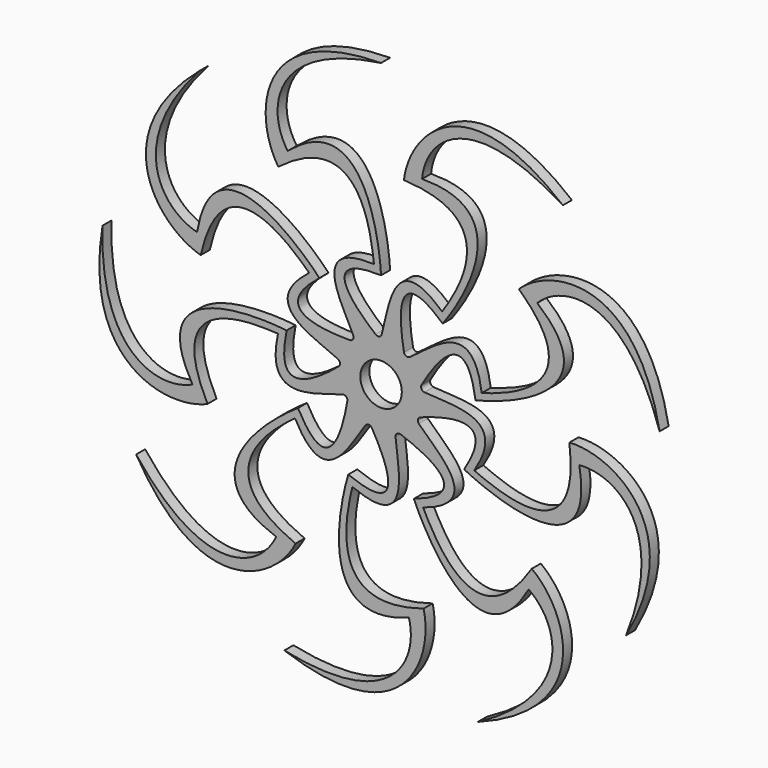
from build123d import *

# Parameters (mm, degrees)
F0_R     = 11
F2_DEPTH = 6
F3_DEPTH = 6
F4_COUNT = 9
F5_R     = 2


with BuildPart() as f2:
    # F0 (on Front) → F2 (new body)
    with BuildSketch(Plane.XZ):
        with BuildLine():
            ThreePointArc((-13.7135733108, 14.5580873417), (-7.9286989407, -18.3612563053), (20, 0))
            ThreePointArc((20, 0), (14.1421356237, 14.1421356237), (0, 20))
            ThreePointArc((0, 20), (-7.3769320576, 18.5898056315), (-13.7135733108, 14.5580873417))
        make_face()
        Circle(F0_R, mode=Mode.SUBTRACT)
    extrude(amount=F2_DEPTH)



with BuildPart() as f3:
    # F0 (on Front) → F3 (new body)
    with BuildSketch(Plane.XZ):
        with BuildLine():
            ThreePointArc((-13.7135733108, 14.5580873417), (-7.3769320576, 18.5898056315), (0, 20))
            add(Edge.make_bspline(
                [(0, 50.8703403595), (-36.6291925311, 51.9567728043), (-12.2493300643, 29.602196777), (0, 20)],
                knots=[0, 0, 0, 0, 30.8703403595, 30.8703403595, 30.8703403595, 30.8703403595], degree=3))
            add(Edge.make_bspline(
                [(-49.5011971962, 92.8428261939), (-12.8526676145, 124.026225454), (-1.5941327438, 76.6952373508), (0, 50.8703403595)],
                knots=[0, 0, 0, 0, 64.9003704995, 64.9003704995, 64.9003704995, 64.9003704995], degree=3))
            add(Edge.make_bspline(
                [(0, 150), (-58.4575124085, 141.7181193829), (-60.8819240066, 108.8985517161), (-49.5011971962, 92.8428261939)],
                knots=[0, 0, 0, 0, 75.6129026116, 75.6129026116, 75.6129026116, 75.6129026116], degree=3))
            add(Edge.make_bspline(
                [(0, 150), (-67.491106689, 149.3647098541), (-67.4708151551, 103.0032276647), (-54.5011971962, 83.8428261939)],
                knots=[0, 0, 0, 0, 85.7155303421, 85.7155303421, 85.7155303421, 85.7155303421], degree=3))
            add(Edge.make_bspline(
                [(-54.5011971962, 83.8428261939), (-9.9864761638, 117.8074940579), (-5.0042514845, 65.315337264), (-3.7743540942, 54.8703403595)],
                knots=[0, 0, 0, 0, 58.4176133244, 58.4176133244, 58.4176133244, 58.4176133244], degree=3))
            add(Edge.make_bspline(
                [(-3.7743540942, 54.8703403595), (-44.023193419, 56.4574673772), (-14.014948589, 22.7607168696), (-13.7135733108, 14.5580873417)],
                knots=[0, 0, 0, 0, 41.519463171, 41.519463171, 41.519463171, 41.519463171], degree=3))
        make_face()
    extrude(amount=F3_DEPTH)


with BuildPart() as f2_1:
    add(f2.part)

    add(f3.part)  # F4 merges F3
    # F4: F3 ×9 about axis
    f4_axis = Axis((0, -25, 0), (0, -1, 0))
    for i in range(1, F4_COUNT):
        add(f3.part.rotate(f4_axis, i * 360 / F4_COUNT))

    # F5
    f5_edges = [f2_1.edges().sort_by_distance(p)[0] for p in [
        (12.663113, -3, 16.249765),
        (20.145655, -3, 4.30835),
        (18.201821, -3, -9.64899),
        (7.741153, -3, -19.09146),
        (-6.341687, -3, -19.600824),
        (-17.457181, -3, -10.938745),
        (-20.404266, -3, 2.841695),
        (-13.803968, -3, 15.292474),
        (-0.74464, -3, 20.587735),
    ]]
    fillet(f5_edges, radius=F5_R)


solid = f2_1.part
